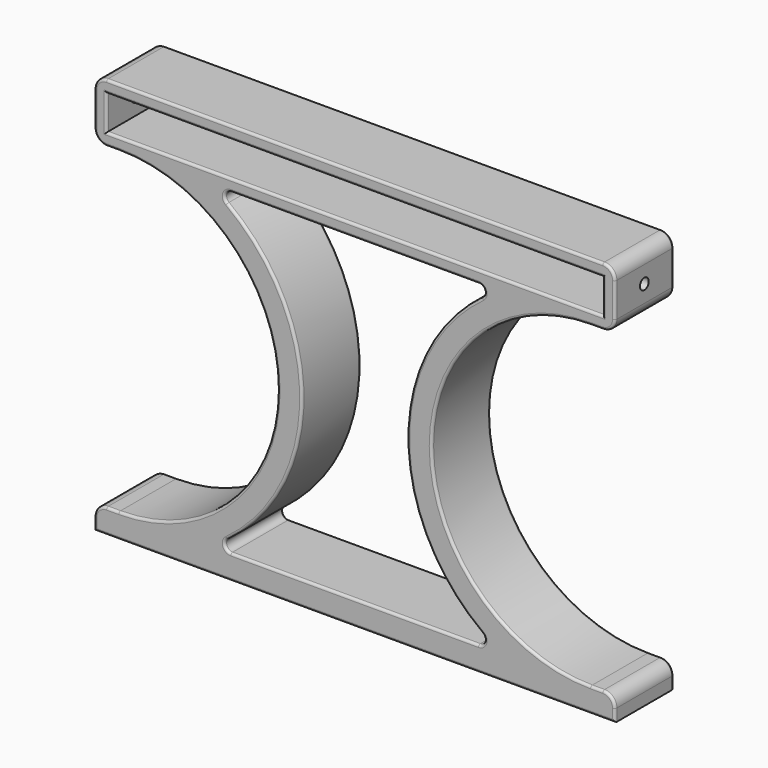
from build123d import *

# Parameters (mm, degrees)
SKETCH_W     = 213
SKETCH_H     = 24
SKETCH_W_2   = 203
SKETCH_H_2   = 14
PAD_DEPTH    = 30
PAD001_DEPTH = 30
PAD002_DEPTH = 30
FILLET_R     = 5
SKETCH003_R  = 2.25
POCKET_DEPTH = 300
FILLET001_R  = 1


with BuildPart() as part:
    # Sketch → Pad (new body)
    with BuildSketch(Plane.XZ):
        with Locations((101.5, 7)):
            Rectangle(SKETCH_W, SKETCH_H)
        with Locations((101.5, 7)):
            Rectangle(SKETCH_W_2, SKETCH_H_2, mode=Mode.SUBTRACT)
    extrude(amount=PAD_DEPTH)

    # Sketch001 (on Face10 of Pad) → Pad001 (join)
    with BuildSketch(Plane.XZ.offset(30)):
        with BuildLine():
            Line((208, -145), (-5, -145))
            Line((-5, -145), (-5, -135))
            Line((5, -135), (-5, -135))
            ThreePointArc((5, -135), (70, -70), (5, -5))
            Line((5, -5), (42.416574, -5))
            ThreePointArc((42.416574, -135), (80, -70), (42.416574, -5))
            Line((42.416574, -135), (160.583426, -135))
            ThreePointArc((160.583426, -5), (123, -70), (160.583426, -135))
            Line((198, -5), (160.583426, -5))
            ThreePointArc((198, -5), (133, -70), (198, -135))
            Line((198, -135), (208, -135))
            Line((208, -135), (208, -145))
        make_face()
    extrude(amount=-PAD001_DEPTH)

    # Sketch002 (on Face13 of Pad001) → Pad002 (join)
    with BuildSketch(Plane(origin=(0, 0, 0), x_dir=(1, 0, 0), z_dir=(0, 1, 0))):
        with BuildLine():
            ThreePointArc((49.347507, 9.516129), (48.449802, 6.722286), (50.825757, 5))
            Line((50.825757, 5), (42.416574, 5))
            ThreePointArc((42.416574, 5), (45.944353, 7.162432), (49.347507, 9.516129))
        make_face()
        with BuildLine():
            ThreePointArc((50.825757, 135), (48.449802, 133.277714), (49.347507, 130.483871))
            ThreePointArc((49.347507, 130.483871), (45.944353, 132.837568), (42.416574, 135))
            Line((50.825757, 135), (42.416574, 135))
        make_face()
        with BuildLine():
            ThreePointArc((153.652493, 130.483871), (154.550198, 133.277714), (152.174243, 135))
            Line((152.174243, 135), (160.583426, 135))
            ThreePointArc((160.583426, 135), (157.055647, 132.837568), (153.652493, 130.483871))
        make_face()
        with BuildLine():
            ThreePointArc((152.174243, 5), (154.550198, 6.722286), (153.652493, 9.516129))
            ThreePointArc((153.652493, 9.516129), (157.055647, 7.162432), (160.583426, 5))
            Line((152.174243, 5), (160.583426, 5))
        make_face()
    extrude(amount=-PAD002_DEPTH)

    # Fillet
    fillet_edges = [part.edges().sort_by_distance(p)[0] for p in [
        (-5, -15, -135),
        (208, -15, -135),
        (208, -15, -5),
        (208, -15, 19),
        (-5, -15, 19),
        (-5, -15, -5),
    ]]
    fillet(fillet_edges, radius=FILLET_R)

    # Sketch003 (on Face7 of Fillet) → Pocket (cut)
    with BuildSketch(Plane(origin=(208, 0, 0), x_dir=(0, 0, 1), z_dir=(1, 0, 0))):
        with Locations((7, 15)):
            Circle(SKETCH003_R)
    extrude(amount=-POCKET_DEPTH, mode=Mode.SUBTRACT)

    # Fillet001
    fillet001_edges = [part.edges().sort_by_distance(p)[0] for p in [
        (101.5, 0, 19),
        (-3.535534, 0, 17.535534),
        (206.535534, 0, 17.535534),
        (-5, 0, 7),
        (208, 0, 7),
        (-3.535534, 0, -3.535534),
        (206.535534, 0, -3.535534),
        (2.5, 0, -5),
        (200.5, 0, -5),
        (70, 0, -70),
        (133, 0, -70),
        (2.5, 0, -135),
        (200.5, 0, -135),
        (-3.535534, 0, -136.464466),
        (206.535534, 0, -136.464466),
        (-5, 0, -142.5),
        (208, 0, -142.5),
        (101.5, 0, -145),
        (101.5, 0, 0),
        (203, 0, 7),
        (101.5, 0, 14),
        (0, 0, 7),
        (101.5, 0, -5),
        (48.449802, 0, -6.722286),
        (80, 0, -70),
        (48.449802, 0, -133.277714),
        (101.5, 0, -135),
        (154.550198, 0, -133.277714),
        (123, 0, -70),
        (154.550198, 0, -6.722286),
        (101.5, -30, 19),
        (-3.535534, -30, 17.535534),
        (206.535534, -30, 17.535534),
        (-5, -30, 7),
        (208, -30, 7),
        (-3.535534, -30, -3.535534),
        (206.535534, -30, -3.535534),
        (2.5, -30, -5),
        (200.5, -30, -5),
        (70, -30, -70),
        (133, -30, -70),
        (2.5, -30, -135),
        (200.5, -30, -135),
        (-3.535534, -30, -136.464466),
        (206.535534, -30, -136.464466),
        (-5, -30, -142.5),
        (208, -30, -142.5),
        (101.5, -30, -145),
        (101.5, -30, 0),
        (0, -30, 7),
        (101.5, -30, 14),
        (203, -30, 7),
        (101.5, -30, -5),
        (154.550198, -30, -6.722286),
        (123, -30, -70),
        (154.550198, -30, -133.277714),
        (101.5, -30, -135),
        (48.449802, -30, -133.277714),
        (80, -30, -70),
        (48.449802, -30, -6.722286),
    ]]
    fillet(fillet001_edges, radius=FILLET001_R)


solid = part.part
